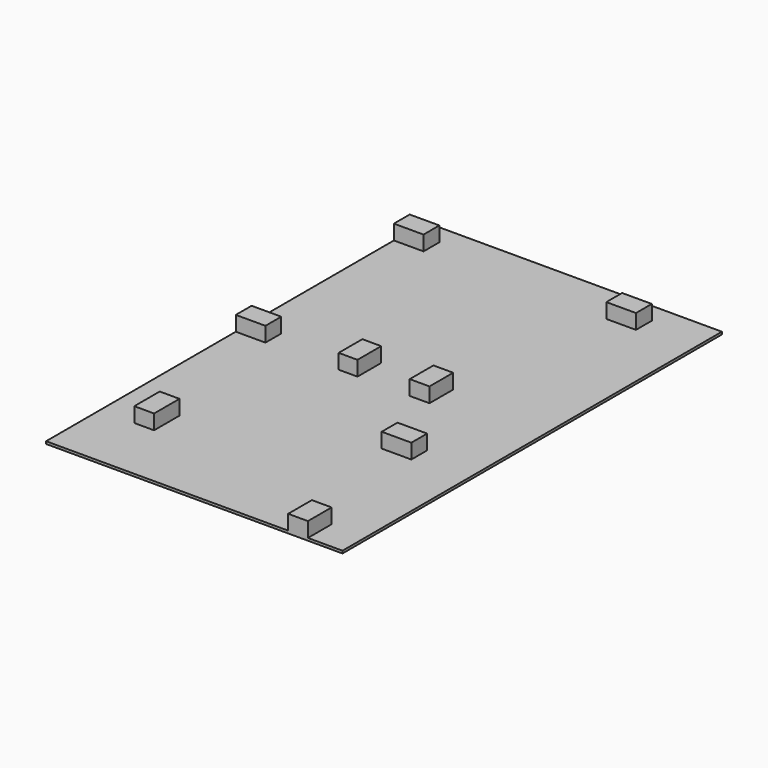
from build123d import *

# Parameters (mm, degrees)
F0_W     = 762
F0_H     = 1219.2
F1_DEPTH = 6.35
F2_W     = 76.2
F2_H     = 50.8
F2_W_2   = 50.8
F2_H_2   = 76.2
F2_H_3   = 81.624158
F2_W_3   = 48.392554
F3_DEPTH = 38.1


with BuildPart() as f1:
    # F0 (on Top) → F1 (new body)
    with BuildSketch(Plane.XY):
        with Locations((0, -76.2)):
            Rectangle(F0_W, F0_H)
    extrude(amount=-F1_DEPTH)

    # F2 (on face) → F3 (join)
    with BuildSketch(Plane.XY):
        with Locations((-342.9, 457.2)):
            Rectangle(F2_W, F2_H)
        with Locations((203.2, 457.2)):
            Rectangle(F2_W, F2_H)
        with Locations((203.2, -264.564646)):
            Rectangle(F2_W, F2_H)
        with Locations((91.504658, -38.1)):
            Rectangle(F2_W_2, F2_H_2)
        with Locations((-266.7, -472.612079)):
            Rectangle(F2_W_2, F2_H_3)
        with Locations((266.7, -647.7)):
            Rectangle(F2_W_2, F2_H_2)
        with Locations((-342.9, -50.8)):
            Rectangle(F2_W, F2_H)
        with Locations((-92.383983, -38.1)):
            Rectangle(F2_W_3, F2_H_2)
    extrude(amount=F3_DEPTH)


solid = f1.part
